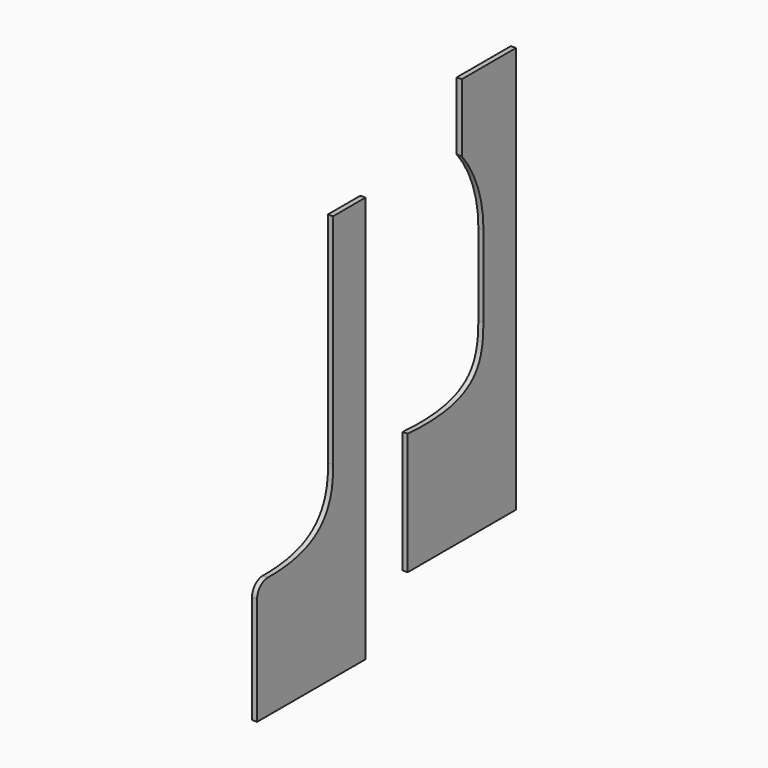
from build123d import *

# Parameters (mm, degrees)
F1_DEPTH = 19.05
F3_DEPTH = 19.05


with BuildPart() as f1:
    # F0 (on Right) → F1 (new body)
    with BuildSketch(Plane.YZ):
        with BuildLine():
            Line((254, -598.191057), (254, 925.808943))
            Line((254, 925.808943), (0, 925.808943))
            Line((0, 925.808943), (0, 671.808943))
            ThreePointArc((0, 671.808943), (75.440284, 538.120113), (101.6, 386.860043))
            Line((101.6, 386.860043), (101.6, 82.060043))
            add(Edge.make_bspline(
                [(101.6, 82.060043), (99.708706, -53.820543), (73.2003, -163.170949), (-253.555367, -140.991057)],
                knots=[0, 0, 0, 0, 419.388993, 419.388993, 419.388993, 419.388993], degree=3))
            Line((-253.555367, -140.991057), (-253.555367, -598.191057))
            Line((-253.555367, -598.191057), (254, -598.191057))
        make_face()
    extrude(amount=F1_DEPTH)


with BuildPart() as f3:
    # F2 (on Right) → F3 (new body)
    with BuildSketch(Plane.YZ):
        with BuildLine():
            Line((-451.211648, -805.17151), (-451.211648, 718.82849))
            Line((-451.211648, 718.82849), (-603.611648, 718.82849))
            Line((-603.611648, 718.82849), (-603.611648, -100.812897))
            add(Edge.make_bspline(
                [(-603.611648, -100.812897), (-595.571504, -311.059936), (-744.566522, -349.778727), (-908.245895, -349.244662)],
                knots=[0, 0, 0, 0, 392.562488, 392.562488, 392.562488, 392.562488], degree=3))
            ThreePointArc((-908.245895, -349.244662), (-944.274022, -364.064813), (-959.211648, -400.044392))
            Line((-959.211648, -400.044392), (-959.211648, -805.17151))
            Line((-959.211648, -805.17151), (-451.211648, -805.17151))
        make_face()
    extrude(amount=F3_DEPTH)


solid = Compound([f1.part, f3.part])
